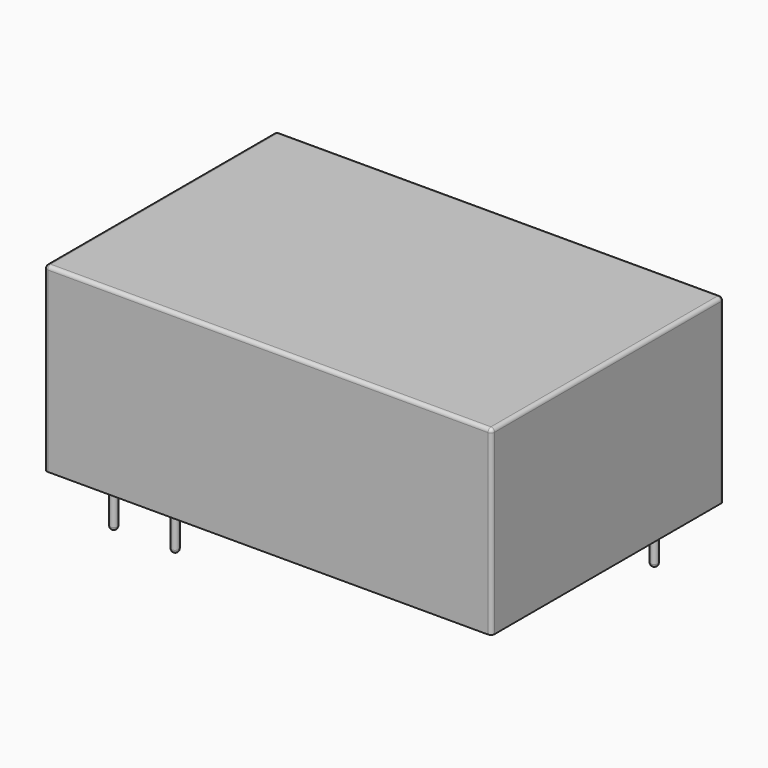
from build123d import *

# Parameters (mm, degrees)
SKETCH_W     = 37
SKETCH_H     = 24
PAD_DEPTH    = 15
SKETCH002_R  = 0.3
PAD001_DEPTH = 4.5
FILLET_R     = 0.3
FILLET001_R  = 0.3


with BuildPart() as part:
    # Sketch → Pad (new body)
    with BuildSketch(Plane.XY):
        Rectangle(SKETCH_W, SKETCH_H)
    extrude(amount=PAD_DEPTH)

    # Sketch002 (on Face5 of Pad) → Pad001 (join)
    with BuildSketch(Plane(origin=(0, 0, 0), x_dir=(1, 0, 0), z_dir=(0, 0, -1))):
        with Locations((-15.24, 8.89)):
            Circle(SKETCH002_R)
        with Locations((-10.16, 8.89)):
            Circle(SKETCH002_R)
        with Locations((10.16, -8.89)):
            Circle(SKETCH002_R)
        with Locations((15.24, -8.89)):
            Circle(SKETCH002_R)
        with Locations((-15.24, -8.89)):
            Circle(SKETCH002_R)
    extrude(amount=PAD001_DEPTH)

    # Fillet
    fillet_edges = [part.edges().sort_by_distance(p)[0] for p in [
        (18.5, -12, 7.5),
        (0, -12, 15),
        (-18.5, -12, 7.5),
        (-18.5, 0, 15),
        (-18.5, 12, 7.5),
        (18.5, 0, 15),
        (0, 12, 15),
        (18.5, 12, 7.5),
    ]]
    fillet(fillet_edges, radius=FILLET_R)

    # Fillet001
    fillet001_edges = [part.edges().sort_by_distance(p)[0] for p in [
        (14.94, 8.89, -4.5),
        (9.86, 8.89, -4.5),
        (-15.54, 8.89, -4.5),
        (-15.54, -8.89, -4.5),
        (-10.46, -8.89, -4.5),
    ]]
    fillet(fillet001_edges, radius=FILLET001_R)


solid = part.part
